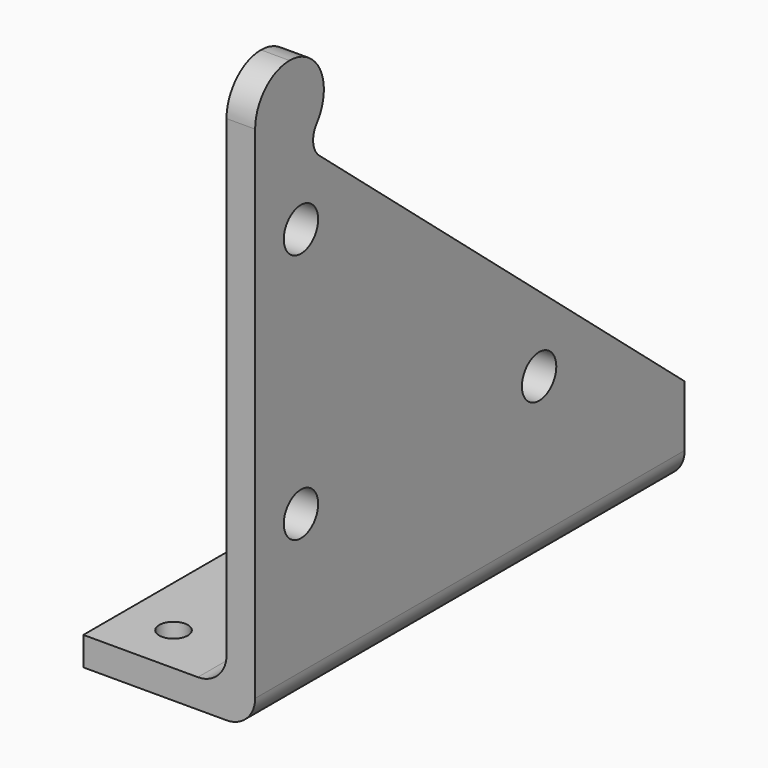
from build123d import *

# Parameters (mm, degrees)
F1_DEPTH = 75
F2_R     = 8
F3_R     = 6
F4_DEPTH = 48.001
F5_R     = 4
F6_DEPTH = 80.001


with BuildPart() as f1:
    # F0 (on Front) → F1 (new body, symmetric)
    with BuildSketch(Plane.XZ):
        Polygon((4, 80), (-4, 80), (-4, -72), (-44, -72), (-44, -80), (4, -80), align=None)
    extrude(amount=F1_DEPTH, both=True)

    # F2
    f2_edges = [f1.edges().sort_by_distance(p)[0] for p in [
        (-4, 0, -72),
        (4, 0, -80),
    ]]
    fillet(f2_edges, radius=F2_R)

    # F3 (on face) → F4 (cut, through all)
    with BuildSketch(Plane.YZ.offset(4)):
        with BuildLine():
            ThreePointArc((-63, 80), (-54.514719, 76.485281), (-51, 68))
            ThreePointArc((-51, 68), (-51.64257, 64.125884), (-53.501462, 60.666667))
            ThreePointArc((-53.501462, 60.666667), (-54.717975, 56.360123), (-52.61582, 52.409533))
            Line((-52.61582, 52.409533), (75, -55))
            Line((75, -55), (75, 80))
            Line((75, 80), (-63, 80))
        make_face()
        with BuildLine():
            ThreePointArc((-75, 68), (-71.485281, 76.485281), (-63, 80))
            Line((-63, 80), (-75, 80))
            Line((-75, 80), (-75, 68))
        make_face()
        with Locations((-59, 36.869957)):
            Circle(F3_R)
        with Locations((-59, -33.130043)):
            Circle(F3_R)
        with Locations((24.168664, -33.130043)):
            Circle(F3_R)
    extrude(amount=-F4_DEPTH, mode=Mode.SUBTRACT)

    # F5 (on Top) → F6 (cut, through all)
    with BuildSketch(Plane.XY):
        with Locations((-30, -61)):
            Circle(F5_R)
        with Locations((-25, 0)):
            Circle(F5_R)
        with Locations((-30, 61)):
            Circle(F5_R)
    extrude(amount=-F6_DEPTH, mode=Mode.SUBTRACT)


solid = f1.part
